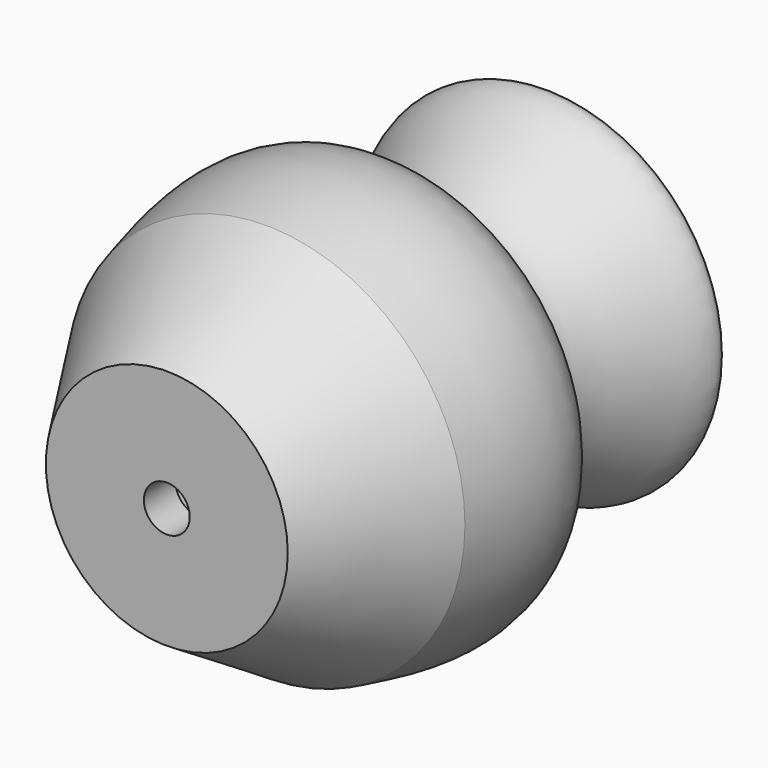
from build123d import *

# Parameters (mm, degrees)
F3_D = 12.7


with BuildPart() as f1:
    # F0 (on Top) → F1 (revolve)
    with BuildSketch(Plane.XY):
        with BuildLine():
            Line((29.8703983426, -57.4548020959), (0, -57.4548020959))
            Line((0, -57.4548020959), (0, -68.4275999665))
            Line((0, -68.4275999665), (33.5279963911, -68.4275999665))
            Line((33.5279963911, -68.4275999665), (55.168800056, -34.0908612079))
            add(Edge.make_bspline(
                [(55.168800056, -34.0908612079), (58.96541122, -18.9376326812), (66.2336432981, 10.8537567392), (15.9998375177, 22.2791696337), (56.0352824972, 60.2594597105), (40.5264894018, 68.2585742164), (3.9856239695, 26.1118338089), (55.4182759927, 0.323523553), (48.8126387312, -20.0430436903), (46.3296025991, -28.803601861)],
                knots=[0, 0, 0, 0, 0.1650446154, 0.308851828, 0.4669004792, 0.5354231791, 0.6993236101, 0.8682107869, 1, 1, 1, 1], degree=3))
            Line((46.3296025991, -28.803601861), (29.8703983426, -57.4548020959))
        make_face()
    revolve(axis=Axis((0, -0.9143985808, 0), (0, -1, 0)))

    # F3 (through all)
    with Locations(Plane(origin=(0, 0, 0), x_dir=(1, 0, 0), z_dir=(0, 1, 0))):
        with Locations((0, 0)):
            Hole(F3_D / 2)


solid = f1.part
